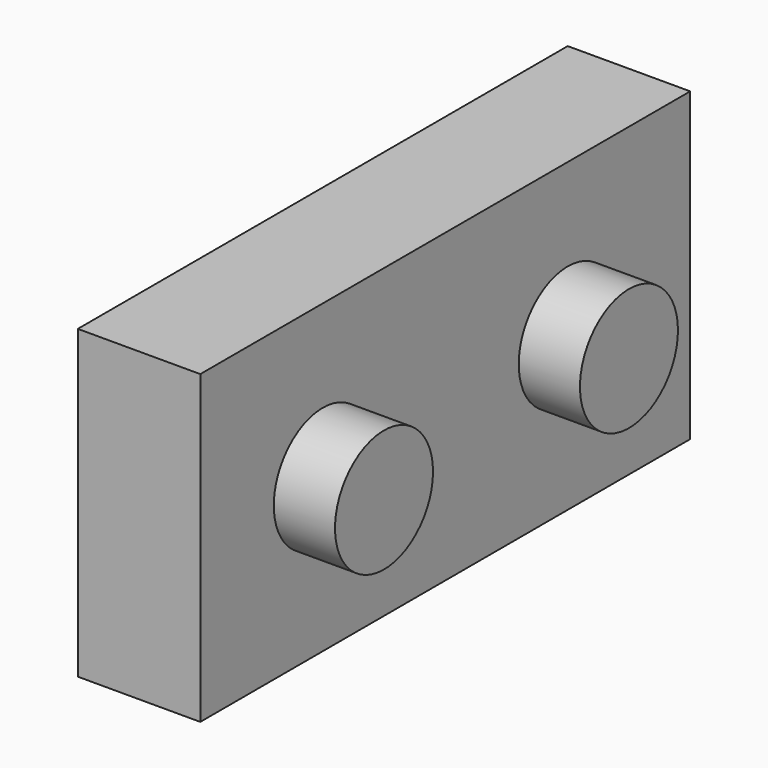
from build123d import *

# Parameters (mm, degrees)
F0_W     = 50
F0_H     = 25
F1_DEPTH = 10
F2_R     = 5
F3_DEPTH = 5
F4_ANGLE = 270


with BuildPart() as f1:
    # F0 (on Front) → F1 (new body)
    with BuildSketch(Plane.XZ):
        Rectangle(F0_W, F0_H)
    extrude(amount=F1_DEPTH)

    # F2 (on face) → F3 (join)
    with BuildSketch(Plane.XZ.offset(10)):
        with Locations((-12.5, 0)):
            Circle(F2_R)
        with Locations((12.5, 0)):
            Circle(F2_R)
    extrude(amount=F3_DEPTH)


with BuildPart() as f1_1:
    # F4: moved
    add(f1.part.rotate(Axis((-25, 0, 0), (0, 0, -1)), F4_ANGLE))


solid = f1_1.part
